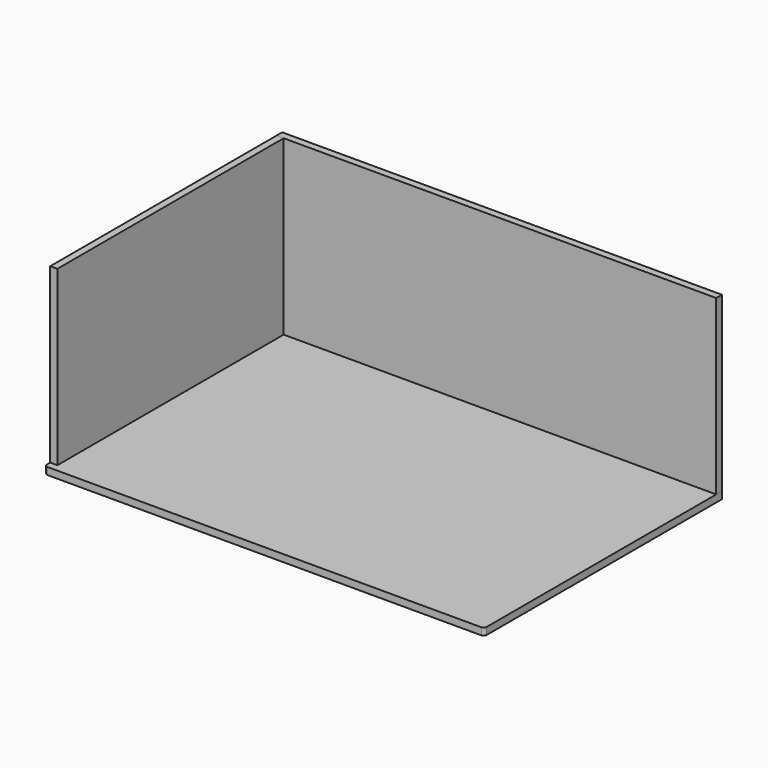
from build123d import *

# Parameters (mm, degrees)
F0_W     = 12
F0_H     = 488
F0_H_2   = 12
F0_H_3   = 476
F1_DEPTH = 12
F2_DEPTH = 291
F3_DEPTH = 291
F4_R     = 5


with BuildPart() as f1:
    # F0 (on Top) → F1 (new body)
    with BuildSketch(Plane.XY):
        with Locations((364, -6)):
            Rectangle(F0_W, F0_H)
        Polygon((-358, -250), (358, -250), (358, 238), (-358, 238), (-358, -238), align=None)
        Polygon((358, 238), (370, 238), (370, 250), (-370, 250), (-370, 238), (-358, 238), align=None)
        with Locations((-364, -244)):
            Rectangle(F0_W, F0_H_2)
        with Locations((-364, 0)):
            Rectangle(F0_W, F0_H_3)
    extrude(amount=-F1_DEPTH)

    # F4
    f4_edges = [f1.edges().sort_by_distance(p)[0] for p in [
        (370, -250, -6),
        (-370, -250, -6),
    ]]
    fillet(f4_edges, radius=F4_R)


with BuildPart() as f2:
    # F0 (on Top) → F2 (new body)
    with BuildSketch(Plane.XY):
        Polygon((358, 238), (370, 238), (370, 250), (-370, 250), (-370, 238), (-358, 238), align=None)
    extrude(amount=F2_DEPTH)


with BuildPart() as f3:
    # F0 (on Top) → F3 (new body)
    with BuildSketch(Plane.XY):
        with Locations((-364, 0)):
            Rectangle(F0_W, F0_H_3)
    extrude(amount=F3_DEPTH)


solid = Compound([f1.part, f2.part, f3.part])
